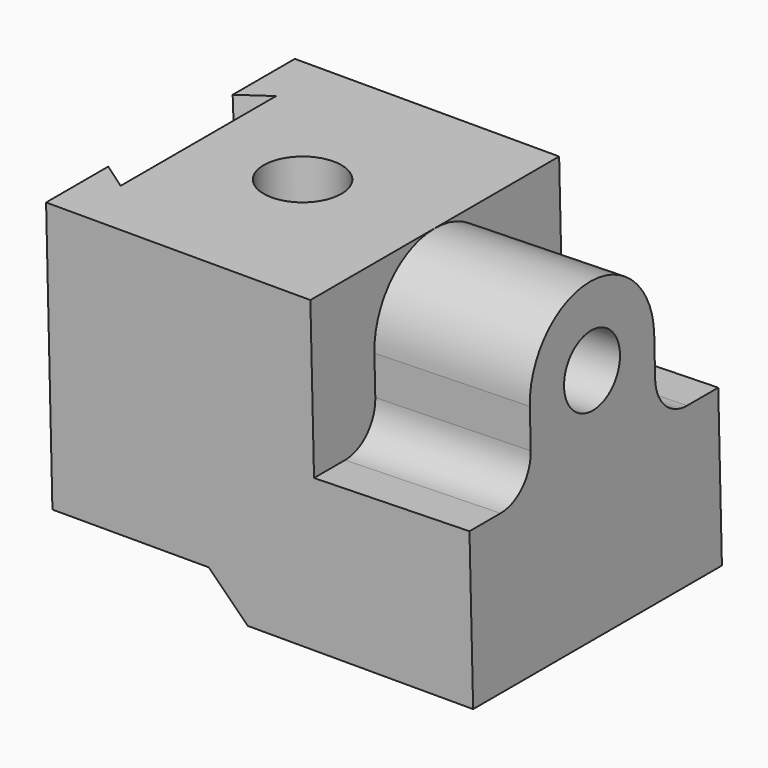
from build123d import *

# Parameters (mm, degrees)
F1_DEPTH   = 2032
F1_FACE1_W = 2743.2
F1_FACE1_H = 2032
F3_DEPTH   = 1016
F4_R       = 254
F5_R       = 254
F6_R       = 228.6
F7_DEPTH   = 2743.2
F8_R       = 254
F9_DEPTH   = 1778
F10_DEPTH  = 1778
F12_DEPTH  = 1778


with BuildPart() as f1:
    # F0 (on Front) → F1 (new body)
    with BuildSketch(Plane.XZ):
        Polygon((-1313.466297527, 208.3184523385), (-1059.5371751883, -45.6106700003), (413.6628248117, -45.6106700003), (365.662272644, 1985.8223087099), (-2377.537727356, 1985.8223087099), (-2335.5372442092, 208.3184523385), align=None)
    extrude(amount=-F1_DEPTH)

    # F2 (on face) + F1_face1 (on face) → F3 (cut)
    with BuildSketch(Plane(origin=(412.35486604, 0, 9.7434970616), x_dir=(0, 1, 0), z_dir=(0.9997209541, 0, 0.023622319))):
        with BuildLine():
            ThreePointArc((508, 1468.6303822727), (656.7897551572, 1827.8406271154), (1016, 1976.6303822727))
            Line((1016, 1976.6303822727), (0, 1976.6303822727))
            Line((0, 1976.6303822727), (0, 960.6303822727))
            Line((0, 960.6303822727), (508, 960.6303822727))
            Line((508, 960.6303822727), (508, 1468.6303822727))
        make_face()
        with BuildLine():
            ThreePointArc((1016, 1976.6303822727), (1375.2102448428, 1827.8406271154), (1524, 1468.6303822727))
            Line((1524, 1468.6303822727), (1524, 960.6303822727))
            Line((1524, 960.6303822727), (2032, 960.6303822727))
            Line((2032, 960.6303822727), (2032, 1976.6303822727))
            Line((2032, 1976.6303822727), (1016, 1976.6303822727))
        make_face()
    with BuildSketch(Plane(origin=(-1005.937727356, 1016, 1985.8223087099), x_dir=(1, 0, 0), z_dir=(0, 0, 1))):
        Rectangle(F1_FACE1_W, F1_FACE1_H)
    extrude(amount=-F3_DEPTH, dir=(0.9997209541, 0, 0.023622319), mode=Mode.SUBTRACT)

    # F4
    f4_edges = [f1.edges().sort_by_distance(p)[0] for p in [
        (-118.195696, 508, 958.105681),
    ]]
    fillet(f4_edges, radius=F4_R)

    # F5
    f5_edges = [f1.edges().sort_by_distance(p)[0] for p in [
        (-118.195696, 1524, 958.105681),
    ]]
    fillet(f5_edges, radius=F5_R)

    # F6 (on face) → F7 (cut)
    with BuildSketch(Plane(origin=(412.35486604, 0, 9.7434970616), x_dir=(0, 1, 0), z_dir=(0.9997209541, 0, 0.023622319))):
        with Locations((1016, 1468.6303822727)):
            Circle(F6_R)
    extrude(amount=-F7_DEPTH, mode=Mode.SUBTRACT)

    # F8 (on face) → F9 (cut)
    with BuildSketch(Plane.XY.offset(1961.8220326261)):
        with Locations((-1513.5124218214, 1016)):
            Circle(F8_R)
    extrude(amount=-F9_DEPTH, mode=Mode.SUBTRACT)

    # F8 (on face) → F10 (cut)
    with BuildSketch(Plane.XY.offset(1961.8220326261)):
        with Locations((-1513.5124218214, 1016)):
            Circle(F8_R)
    extrude(amount=-F10_DEPTH, mode=Mode.SUBTRACT)

    # F11 (on face) → F12 (cut)
    with BuildSketch(Plane.XY.offset(1961.8220326261)):
        Polygon((-2194.798707962, 381), (-2194.798707962, 1016), (-2194.798707962, 1651), (-2376.9706269316, 1524), (-2376.9706269316, 1016), (-2376.9706269316, 508), align=None)
    extrude(amount=-F12_DEPTH, mode=Mode.SUBTRACT)


solid = f1.part
